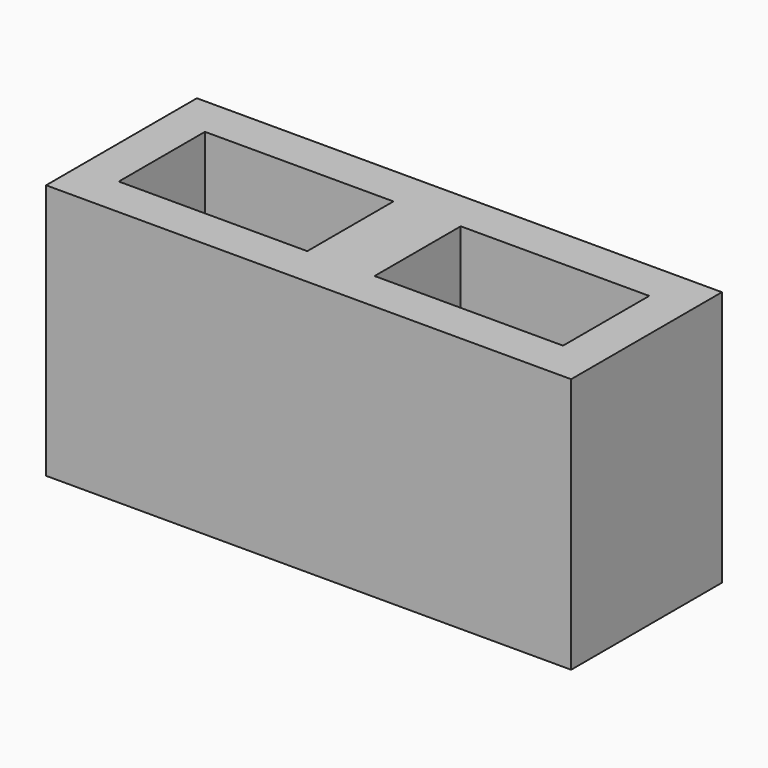
from build123d import *

# Parameters (mm, degrees)
BOX025_W     = 140
BOX025_H     = 80
BOX025_DEPTH = 190
BOX023_W     = 140
BOX023_H     = 80
BOX023_DEPTH = 190
BOX024_W     = 390
BOX024_H     = 140
BOX024_DEPTH = 190


with BuildPart() as cube015:
    # Box025 → Box025 (new body)
    with BuildSketch(Plane(origin=(220, 30, 0), x_dir=(1, 0, 0), z_dir=(0, 0, 1))):
        with Locations((70, 40)):
            Rectangle(BOX025_W, BOX025_H)
    extrude(amount=BOX025_DEPTH)


with BuildPart() as fusion007:
    # Box023 → Box023 (new body)
    with BuildSketch(Plane(origin=(30, 30, 0), x_dir=(1, 0, 0), z_dir=(0, 0, 1))):
        with Locations((70, 40)):
            Rectangle(BOX023_W, BOX023_H)
    extrude(amount=BOX023_DEPTH)

    # Fusion007: union Cube015
    add(cube015.part)


with BuildPart() as cut004:
    # Box024 → Box024 (new body)
    with BuildSketch(Plane.XY):
        with Locations((195, 70)):
            Rectangle(BOX024_W, BOX024_H)
    extrude(amount=BOX024_DEPTH)

    # Cut004: cut Fusion007
    add(fusion007.part, mode=Mode.SUBTRACT)


with BuildPart() as cut004_1:
    # Cut004 placement: moved
    add(cut004.part.moved(Location((230, 445, -390))))


solid = cut004_1.part
